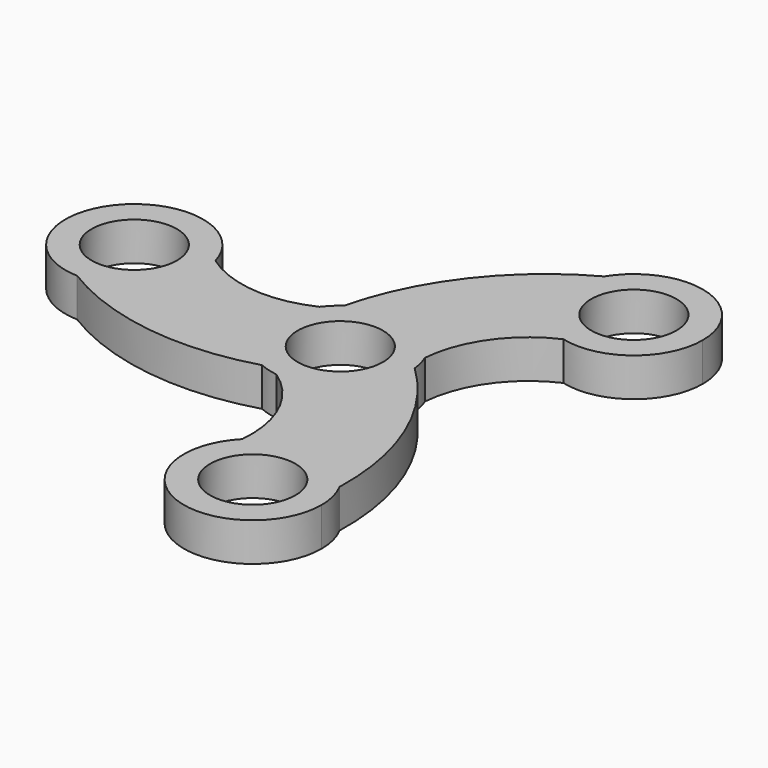
from build123d import *

# Parameters (mm, degrees)
F0_R     = 11.2522
F1_DEPTH = 10.16


with BuildPart() as f1:
    # F0 (on Top) → F1 (new body)
    with BuildSketch(Plane.XY):
        with BuildLine():
            ThreePointArc((-10.719341, 14.669081), (4.919614, 17.489528), (16.794827, 6.929645))
            ThreePointArc((16.794827, 6.929645), (22.058644, 21.375356), (33.895097, 31.187832))
            ThreePointArc((33.895097, 31.187832), (21.56764, 41.999689), (22.968486, 58.336766))
            ThreePointArc((22.968486, 58.336766), (1.481286, 40.085028), (-10.719341, 14.669081))
        make_face()
        with BuildLine():
            ThreePointArc((22.968486, 58.336766), (21.56764, 41.999689), (33.895097, 31.187832))
            ThreePointArc((33.895097, 31.187832), (49.553982, 34.424571), (56.590345, 48.783079))
            ThreePointArc((56.590345, 48.783079), (43.388016, 66.259508), (22.968486, 58.336766))
        make_face()
        with Locations((38.42207, 48.783079)):
            Circle(F0_R, mode=Mode.SUBTRACT)
        with BuildLine():
            ThreePointArc((18.063467, 1.948681), (18.142054, 0.975749), (18.168275, 0))
            ThreePointArc((18.168275, 0), (11.969796, -13.667852), (-2.396165, -18.00957))
            ThreePointArc((-2.396165, -18.00957), (7.482279, -29.791024), (10.061906, -44.947931))
            ThreePointArc((10.061906, -44.947931), (25.588977, -39.677969), (39.036878, -49.059675))
            ThreePointArc((39.036878, -49.059675), (33.97401, -21.325346), (18.063467, 1.948681))
        make_face()
        with BuildLine():
            ThreePointArc((-2.396165, -18.00957), (11.969796, -13.667852), (18.168275, 0))
            ThreePointArc((18.168275, 0), (18.142054, 0.975749), (18.063467, 1.948681))
            ThreePointArc((18.063467, 1.948681), (17.606183, 4.484254), (16.794827, 6.929645))
            ThreePointArc((16.794827, 6.929645), (4.919614, 17.489528), (-10.719341, 14.669081))
            ThreePointArc((-10.719341, 14.669081), (-12.686569, 13.005275), (-14.398662, 11.079924))
            ThreePointArc((-14.398662, 11.079924), (-17.606183, -4.484254), (-7.344126, -16.617762))
            ThreePointArc((-7.344126, -16.617762), (-4.919614, -17.489528), (-2.396165, -18.00957))
        make_face()
        Circle(F0_R, mode=Mode.SUBTRACT)
        with BuildLine():
            ThreePointArc((-43.957003, 13.760099), (-75.760224, 20.08762), (-62.005364, -9.27709))
            ThreePointArc((-62.005364, -9.27709), (-48.806362, -4.1559), (-43.290146, 8.88295))
            ThreePointArc((-43.290146, 8.88295), (-43.457632, 11.344214), (-43.957003, 13.760099))
        make_face()
        with Locations((-61.458421, 8.88295)):
            Circle(F0_R, mode=Mode.SUBTRACT)
        with BuildLine():
            ThreePointArc((-62.005364, -9.27709), (-35.455296, -18.759683), (-7.344126, -16.617762))
            ThreePointArc((-7.344126, -16.617762), (-17.606183, -4.484254), (-14.398662, 11.079924))
            ThreePointArc((-14.398662, 11.079924), (-29.540923, 8.415668), (-43.957003, 13.760099))
            ThreePointArc((-43.957003, 13.760099), (-43.457632, 11.344214), (-43.290146, 8.88295))
            ThreePointArc((-43.290146, 8.88295), (-48.806362, -4.1559), (-62.005364, -9.27709))
        make_face()
        with BuildLine():
            ThreePointArc((41.204625, -57.666028), (40.654355, -53.228449), (39.036878, -49.059675))
            ThreePointArc((39.036878, -49.059675), (25.588977, -39.677969), (10.061906, -44.947931))
            ThreePointArc((10.061906, -44.947931), (16.167473, -74.485801), (41.204625, -57.666028))
        make_face()
        with Locations((23.03635, -57.666028)):
            Circle(F0_R, mode=Mode.SUBTRACT)
    extrude(amount=F1_DEPTH)


solid = f1.part
